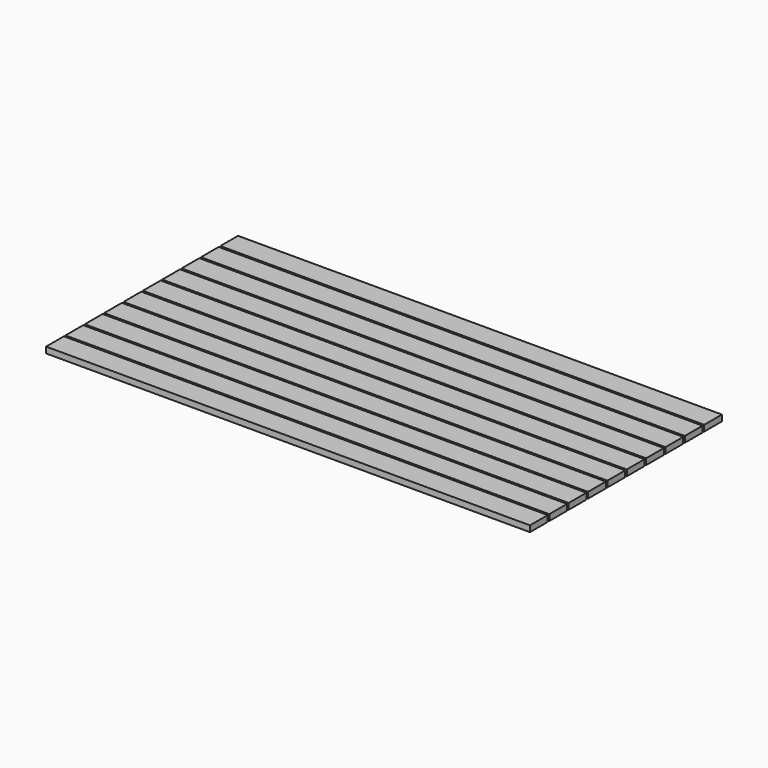
from build123d import *

# Parameters (mm, degrees)
F0_W     = 3048
F0_H     = 139.7
F1_DEPTH = 38.1


with BuildPart() as f1:
    # F0 (on Top) → F1 (new body)
    with BuildSketch(Plane.XY):
        Rectangle(F0_W, F0_H)
        with Locations((0, -152.4)):
            Rectangle(F0_W, F0_H)
        with Locations((0, -304.8)):
            Rectangle(F0_W, F0_H)
        with Locations((0, -457.2)):
            Rectangle(F0_W, F0_H)
        with Locations((0, -609.6)):
            Rectangle(F0_W, F0_H)
        with Locations((0, -762)):
            Rectangle(F0_W, F0_H)
        with Locations((0, -914.4)):
            Rectangle(F0_W, F0_H)
        with Locations((0, -1066.8)):
            Rectangle(F0_W, F0_H)
        with Locations((0, -1219.2)):
            Rectangle(F0_W, F0_H)
        with Locations((0, -1371.6)):
            Rectangle(F0_W, F0_H)
    extrude(amount=F1_DEPTH)


solid = f1.part
